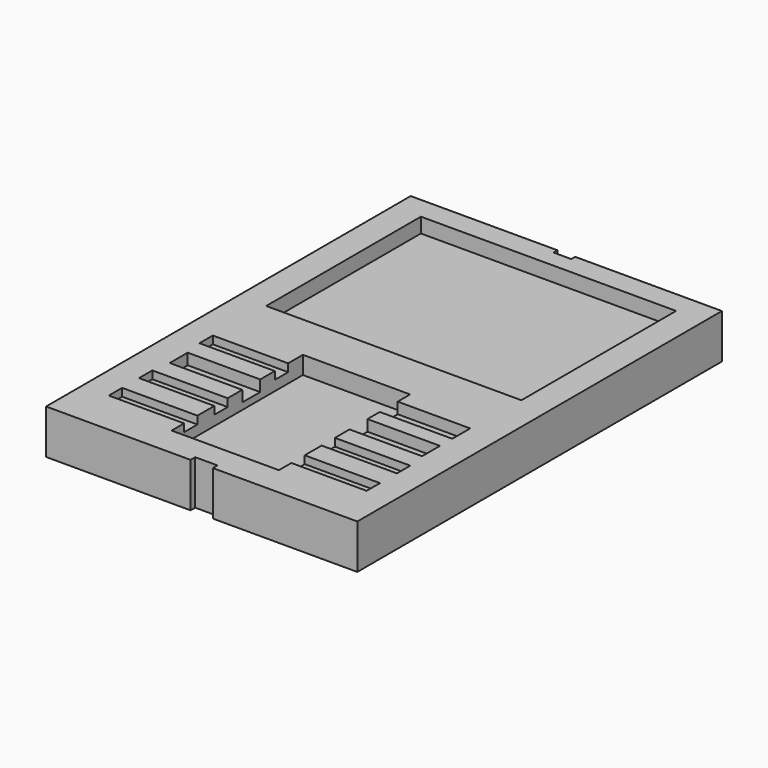
from build123d import *

# Parameters (mm, degrees)
F0_W      = 177.8
F0_H      = 260.35
F1_DEPTH  = 25.4
F2_W      = 10.16
F2_H      = 5.588
F2_W_2    = 12.7
F2_H_2    = 6.604
F3_DEPTH  = 25.401
F4_W      = 145.796
F4_H      = 110.49
F5_DEPTH  = 8.466667
F6_W      = 41.43375
F6_H      = 12.8016
F7_DEPTH  = 6.35
F6_W_2    = 43.02125
F6_H_2    = 9.525
F8_DEPTH  = 4.445
F6_W_3    = 15.39875
F6_W_4    = 13.81125
F9_DEPTH  = 10.16
F10_W     = 101.6
F10_H     = 25.4
F11_DEPTH = 11.43


with BuildPart() as f1:
    # F0 (on Top) → F1 (new body)
    with BuildSketch(Plane.XY):
        Rectangle(F0_W, F0_H)
    extrude(amount=F1_DEPTH)

    # F2 (on face) → F3 (cut, through all)
    with BuildSketch(Plane.XY.offset(25.4)):
        with Locations((0, 130.175)):
            Rectangle(F2_W, F2_H)
        with Locations((0, -130.175)):
            Rectangle(F2_W_2, F2_H_2)
    extrude(amount=-F3_DEPTH, mode=Mode.SUBTRACT)

    # F4 (on face) → F5 (cut)
    with BuildSketch(Plane.XY.offset(25.4)):
        with Locations((0, 62.23)):
            Rectangle(F4_W, F4_H)
    extrude(amount=-F5_DEPTH, mode=Mode.SUBTRACT)

    # F6 (on face) → F7 (cut)
    with BuildSketch(Plane.XY.offset(25.4)):
        with Locations((-51.355625, -56.515)):
            Rectangle(F6_W, F6_H)
        with Locations((51.355625, -56.515)):
            Rectangle(F6_W, F6_H)
        with Locations((51.355625, -34.925)):
            Rectangle(F6_W, F6_H)
    extrude(amount=-F7_DEPTH, mode=Mode.SUBTRACT)

    # F6 (on face) → F8 (cut)
    with BuildSketch(Plane.XY.offset(25.4)):
        with Locations((-52.149375, -34.925)):
            Rectangle(F6_W_2, F6_H_2)
        with Locations((-52.149375, -78.105)):
            Rectangle(F6_W_2, F6_H_2)
        with Locations((-52.149375, -99.695)):
            Rectangle(F6_W_2, F6_H_2)
        with Locations((52.149375, -78.105)):
            Rectangle(F6_W_2, F6_H_2)
        with Locations((52.149375, -99.695)):
            Rectangle(F6_W_2, F6_H_2)
    extrude(amount=-F8_DEPTH, mode=Mode.SUBTRACT)

    # F6 (on face) → F9 (cut)
    with BuildSketch(Plane.XY.offset(25.4)):
        Polygon((-15.24, -30.1625), (-15.24, -39.6875), (-30.63875, -39.6875), (-30.63875, -50.1142), (-16.8275, -50.1142), (-16.8275, -62.9158), (-30.63875, -62.9158), (-30.63875, -73.3425), (-15.24, -73.3425), (-15.24, -82.8675), (-30.63875, -82.8675), (-30.63875, -94.9325), (-15.24, -94.9325), (-15.24, -104.4575), (-30.63875, -104.4575), (-30.63875, -113.3475), (30.63875, -113.3475), (30.63875, -104.4575), (15.24, -104.4575), (15.24, -94.9325), (30.63875, -94.9325), (30.63875, -82.8675), (15.24, -82.8675), (15.24, -73.3425), (30.63875, -73.3425), (30.63875, -62.9158), (16.8275, -62.9158), (16.8275, -50.1142), (30.63875, -50.1142), (30.63875, -41.3258), (16.8275, -41.3258), (16.8275, -28.5242), (30.63875, -28.5242), (30.63875, -19.6342), (-30.63875, -19.6342), (-30.63875, -30.1625), align=None)
        with Locations((-22.939375, -34.925)):
            Rectangle(F6_W_3, F6_H_2)
        with Locations((-23.733125, -56.515)):
            Rectangle(F6_W_4, F6_H)
        with Locations((-22.939375, -78.105)):
            Rectangle(F6_W_3, F6_H_2)
        with Locations((-22.939375, -99.695)):
            Rectangle(F6_W_3, F6_H_2)
        with Locations((22.939375, -99.695)):
            Rectangle(F6_W_3, F6_H_2)
        with Locations((22.939375, -78.105)):
            Rectangle(F6_W_3, F6_H_2)
        with Locations((23.733125, -56.515)):
            Rectangle(F6_W_4, F6_H)
        with Locations((23.733125, -34.925)):
            Rectangle(F6_W_4, F6_H)
    extrude(amount=-F9_DEPTH, mode=Mode.SUBTRACT)

    # F10 (on face) → F11 (cut)
    with BuildSketch(Plane(origin=(0, 0, 0), x_dir=(1, 0, 0), z_dir=(0, 0, -1))):
        with Locations((0, 41.275)):
            Rectangle(F10_W, F10_H)
        with Locations((0, -92.075)):
            Rectangle(F10_W, F10_H)
    extrude(amount=-F11_DEPTH, mode=Mode.SUBTRACT)


solid = f1.part
